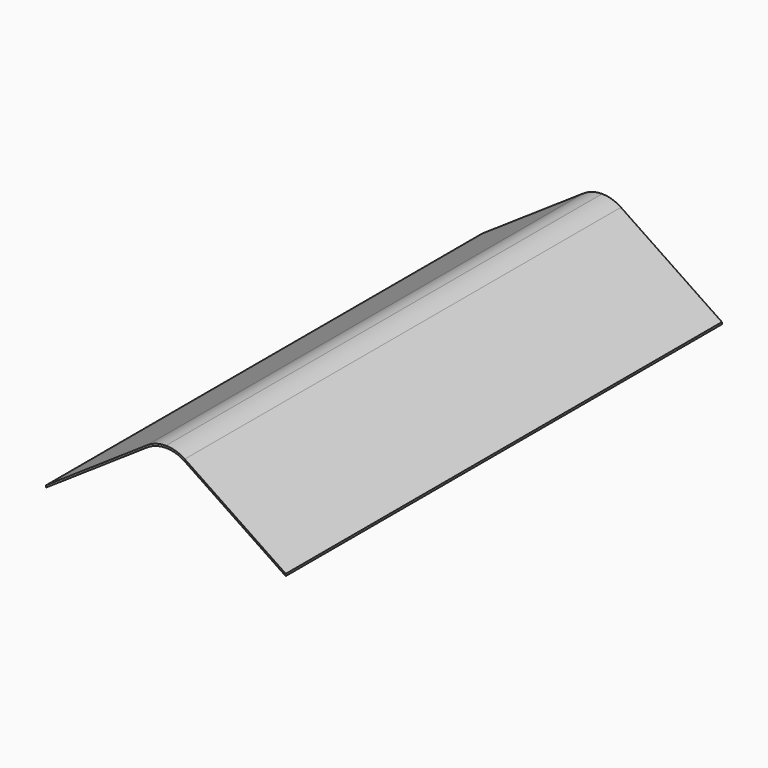
from build123d import *

# Parameters (mm, degrees)
F1_DEPTH = 102.87


with BuildPart() as f1:
    # F0 (on Front) → F1 (new body)
    with BuildSketch(Plane.XZ):
        with BuildLine():
            Line((22.606, -13.555481), (3.550875, -0.702637))
            ThreePointArc((3.550875, -0.702637), (1.85656, 0.105509), (0, 0.382974))
            ThreePointArc((0, 0.382974), (-1.85656, 0.105509), (-3.550875, -0.702637))
            Line((-3.550875, -0.702637), (-22.606, -13.555481))
            Line((-22.606, -13.555481), (-22.606, -13.938456))
            Line((-22.606, -13.938456), (-3.550875, -1.085611))
            ThreePointArc((-3.550875, -1.085611), (-1.85656, -0.277465), (0, 0))
            ThreePointArc((0, 0), (1.85656, -0.277465), (3.550875, -1.085611))
            Line((3.550875, -1.085611), (22.606, -13.938456))
            Line((22.606, -13.938456), (22.606, -13.555481))
        make_face()
    extrude(amount=F1_DEPTH)


solid = f1.part
